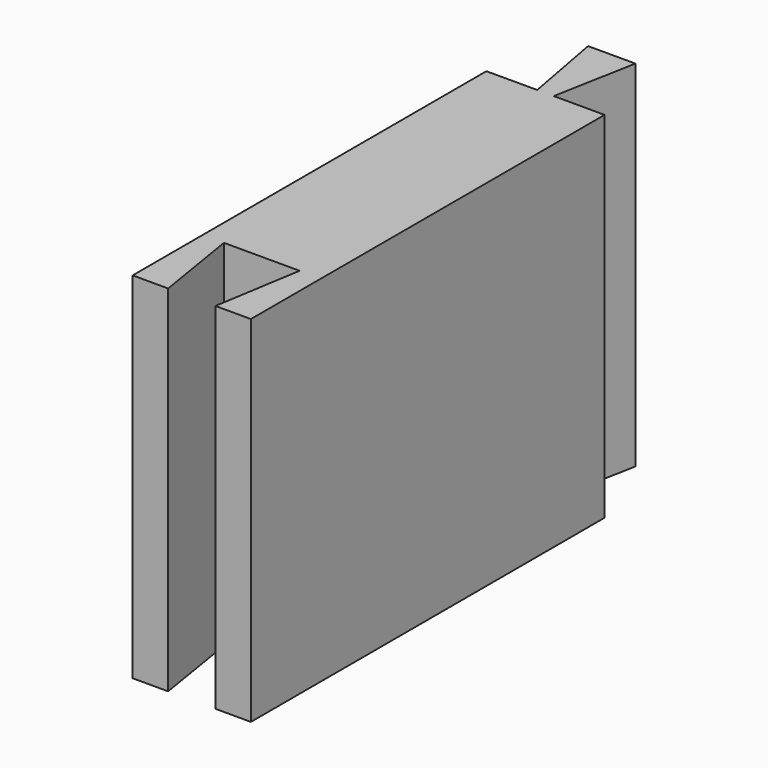
from build123d import *

# Parameters (mm, degrees)
F1_DEPTH = 15


with BuildPart() as f1:
    # F0 (on Top) → F1 (new body)
    with BuildSketch(Plane.XY):
        Polygon((-70.779354, 10.755781), (-72.929354, 10.755781), (-72.929354, -4.244219), (-72.029354, -4.244219), (-68.829354, -4.244219), (-67.929354, -4.244219), (-67.929354, 10.755781), (-70.079354, 10.755781), align=None)
        Polygon((-71.429354, 14.255781), (-70.779354, 10.755781), (-70.079354, 10.755781), (-69.429354, 14.255781), align=None)
        Polygon((-72.029354, -4.244219), (-72.929354, -4.244219), (-72.929354, -7.944219), (-71.429354, -7.944219), align=None)
        Polygon((-67.929354, -4.244219), (-68.829354, -4.244219), (-69.429354, -7.944219), (-67.929354, -7.944219), align=None)
    extrude(amount=F1_DEPTH)


solid = f1.part
